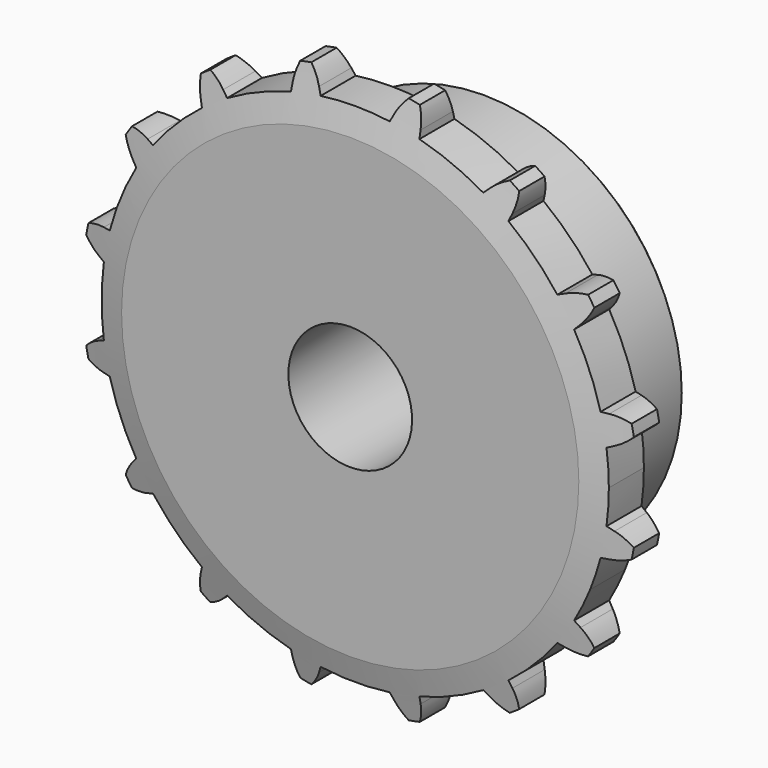
from build123d import *

# Parameters (mm, degrees)
F0_W     = 7.2136
F0_H     = 17.4625
F0_W_2   = 15.0114
F0_H_2   = 10.287
F2_R     = 1.5875
F3_SIZE  = 0.79375
F4_SIZE2 = 6.35
F4_SIZE  = 1.5748
F6_DEPTH = 22.226


with BuildPart() as f1:
    # F0 (on Right) → F1 (revolve)
    with BuildSketch(Plane.YZ):
        with Locations((3.6068, 16.66875)):
            Rectangle(F0_W, F0_H)
        with Locations((14.7193, 16.66875)):
            Rectangle(F0_W_2, F0_H)
        with Locations((3.6068, 30.5435)):
            Rectangle(F0_W, F0_H_2)
    revolve(axis=Axis((0, 27.0035882514, 0), (0, 1, 0)))

    # F2
    f2_edges = [f1.edges().sort_by_distance(p)[0] for p in [
        (0, 7.2136, -25.4),
    ]]
    fillet(f2_edges, radius=F2_R)

    # F3
    f3_edges = [f1.edges().sort_by_distance(p)[0] for p in [
        (0, 22.225, -25.4),
    ]]
    chamfer(f3_edges, length=F3_SIZE)

    # F4
    f4_edges = [f1.edges().sort_by_distance(p)[0] for p in [
        (0, 0, -35.687),
        (0, 7.2136, -35.687),
    ]]
    f4_side = f1.faces().sort_by_distance((0, 3.6068, -35.687))[0]
    chamfer(f4_edges, length=F4_SIZE, length2=F4_SIZE2, reference=f4_side)

    # F5 (on face) → F6 (intersect, through all)
    with BuildSketch(Plane.XZ):
        with BuildLine():
            ThreePointArc((32.2468627383, -4.4327027358), (32.4742021983, -2.2215313627), (32.5501, 0))
            ThreePointArc((32.5501, 0), (32.4742021983, 2.2215313627), (32.2468627383, 4.4327027358))
            ThreePointArc((32.2468627383, 4.4327027358), (31.1168279297, 3.8288728943), (30.0699408338, 3.0902142758))
            ThreePointArc((30.0699408338, 3.0902142758), (28.8110732027, 1.3115991648), (28.6829715368, -0.8636730915))
            ThreePointArc((28.6829715368, -0.8636730915), (29.1868595278, -2.0950482778), (30.0699408338, -3.0902142758))
            ThreePointArc((30.0699408338, -3.0902142758), (31.1168279297, -3.8288728943), (32.2468627383, -4.4327027358))
        make_face()
        with BuildLine():
            ThreePointArc((30.0699408338, 3.0902142758), (31.1168279297, 3.8288728943), (32.2468627383, 4.4327027358))
            ThreePointArc((32.2468627383, 4.4327027358), (31.9246589557, 6.3502094907), (31.4885383693, 8.2450567844))
            ThreePointArc((31.4885383693, 8.2450567844), (30.2134466622, 8.3704772169), (28.963576686, 8.6522824488))
            ThreePointArc((28.963576686, 8.6522824488), (27.7668824019, 9.2337553606), (26.8301237175, 10.1785681061))
            ThreePointArc((26.8301237175, 10.1785681061), (26.1160335714, 12.2372800065), (26.5984290744, 14.3622538898))
            ThreePointArc((26.5984290744, 14.3622538898), (27.2829542197, 15.4453118161), (28.0958945741, 16.4356234471))
            ThreePointArc((28.0958945741, 16.4356234471), (27.0644190274, 18.0838666418), (25.9363694778, 19.6675811508))
            ThreePointArc((25.9363694778, 19.6675811508), (24.710342026, 19.2954980503), (23.4477705432, 19.0775476037))
            ThreePointArc((23.4477705432, 19.0775476037), (22.1196491378, 19.1568034495), (20.892632778, 19.6712145785))
            ThreePointArc((20.892632778, 19.6712145785), (19.4450645713, 21.2999458985), (19.0775476037, 23.4477705432))
            ThreePointArc((19.0775476037, 23.4477705432), (19.2954980503, 24.710342026), (19.6675811508, 25.9363694778))
            ThreePointArc((19.6675811508, 25.9363694778), (18.0838666418, 27.0644190274), (16.4356234471, 28.0958945741))
            ThreePointArc((16.4356234471, 28.0958945741), (15.4453118161, 27.2829542197), (14.3622538898, 26.5984290744))
            ThreePointArc((14.3622538898, 26.5984290744), (13.1048998075, 26.1634018701), (11.7744278902, 26.1690969513))
            ThreePointArc((11.7744278902, 26.1690969513), (9.8137607601, 27.1198881119), (8.6522824488, 28.963576686))
            ThreePointArc((8.6522824488, 28.963576686), (8.3704772169, 30.2134466622), (8.2450567844, 31.4885383693))
            ThreePointArc((8.2450567844, 31.4885383693), (6.3502094907, 31.9246589557), (4.4327027358, 32.2468627383))
            ThreePointArc((4.4327027358, 32.2468627383), (3.8288728943, 31.1168279297), (3.0902142758, 30.0699408338))
            ThreePointArc((3.0902142758, 30.0699408338), (2.0950482778, 29.1868595278), (0.8636730915, 28.6829715368))
            ThreePointArc((0.8636730915, 28.6829715368), (-1.3115991648, 28.8110732027), (-3.0902142758, 30.0699408338))
            ThreePointArc((-3.0902142758, 30.0699408338), (-3.8288728943, 31.1168279297), (-4.4327027358, 32.2468627383))
            ThreePointArc((-4.4327027358, 32.2468627383), (-4.4328730935, 32.2468393203), (-4.433043451, 32.2468159013))
            ThreePointArc((-4.433043451, 32.2468159013), (-6.3503781461, 31.9246254075), (-8.2450567844, 31.4885383693))
            ThreePointArc((-8.2450567844, 31.4885383693), (-8.3704772169, 30.2134466622), (-8.6522824488, 28.963576686))
            ThreePointArc((-8.6522824488, 28.963576686), (-9.2337553606, 27.7668824019), (-10.1785681061, 26.8301237175))
            ThreePointArc((-10.1785681061, 26.8301237175), (-12.2372800065, 26.1160335714), (-14.3622538898, 26.5984290744))
            ThreePointArc((-14.3622538898, 26.5984290744), (-15.4453118161, 27.2829542197), (-16.4356234471, 28.0958945741))
            ThreePointArc((-16.4356234471, 28.0958945741), (-18.0838666418, 27.0644190274), (-19.6675811508, 25.9363694778))
            ThreePointArc((-19.6675811508, 25.9363694778), (-19.2954980503, 24.710342026), (-19.0775476037, 23.4477705432))
            ThreePointArc((-19.0775476037, 23.4477705432), (-19.1568034495, 22.1196491378), (-19.6712145785, 20.892632778))
            ThreePointArc((-19.6712145785, 20.892632778), (-21.2999458985, 19.4450645713), (-23.4477705432, 19.0775476037))
            ThreePointArc((-23.4477705432, 19.0775476037), (-24.710342026, 19.2954980503), (-25.9363694778, 19.6675811508))
            ThreePointArc((-25.9363694778, 19.6675811508), (-27.0644190274, 18.0838666418), (-28.0958945741, 16.4356234471))
            ThreePointArc((-28.0958945741, 16.4356234471), (-27.2829542197, 15.4453118161), (-26.5984290744, 14.3622538898))
            ThreePointArc((-26.5984290744, 14.3622538898), (-26.1634018701, 13.1048998075), (-26.1690969513, 11.7744278902))
            ThreePointArc((-26.1690969513, 11.7744278902), (-27.1198881119, 9.8137607601), (-28.963576686, 8.6522824488))
            ThreePointArc((-28.963576686, 8.6522824488), (-30.2134466622, 8.3704772169), (-31.4885383693, 8.2450567844))
            ThreePointArc((-31.4885383693, 8.2450567844), (-31.9246589557, 6.3502094907), (-32.2468627383, 4.4327027358))
            ThreePointArc((-32.2468627383, 4.4327027358), (-31.1168279297, 3.8288728943), (-30.0699408338, 3.0902142758))
            ThreePointArc((-30.0699408338, 3.0902142758), (-29.1868595278, 2.0950482778), (-28.6829715368, 0.8636730915))
            ThreePointArc((-28.6829715368, 0.8636730915), (-28.8110732027, -1.3115991648), (-30.0699408338, -3.0902142758))
            ThreePointArc((-30.0699408338, -3.0902142758), (-31.1168279297, -3.8288728943), (-32.2468627383, -4.4327027358))
            ThreePointArc((-32.2468627383, -4.4327027358), (-31.9246589557, -6.3502094907), (-31.4885383693, -8.2450567844))
            ThreePointArc((-31.4885383693, -8.2450567844), (-30.2134466622, -8.3704772169), (-28.963576686, -8.6522824488))
            ThreePointArc((-28.963576686, -8.6522824488), (-27.7668824019, -9.2337553606), (-26.8301237175, -10.1785681061))
            ThreePointArc((-26.8301237175, -10.1785681061), (-26.1160335714, -12.2372800065), (-26.5984290744, -14.3622538898))
            ThreePointArc((-26.5984290744, -14.3622538898), (-27.2829542197, -15.4453118161), (-28.0958945741, -16.4356234471))
            ThreePointArc((-28.0958945741, -16.4356234471), (-27.0644190274, -18.0838666418), (-25.9363694778, -19.6675811508))
            ThreePointArc((-25.9363694778, -19.6675811508), (-25.6632094228, -19.5701802439), (-25.3874309068, -19.4804608902))
            ThreePointArc((-25.3874309068, -19.4804608902), (-24.4272506056, -19.2325488644), (-23.4477705432, -19.0775476037))
            ThreePointArc((-23.4477705432, -19.0775476037), (-22.1196491378, -19.1568034495), (-20.892632778, -19.6712145785))
            ThreePointArc((-20.892632778, -19.6712145785), (-19.4450645713, -21.2999458985), (-19.0775476037, -23.4477705432))
            ThreePointArc((-19.0775476037, -23.4477705432), (-19.2954980503, -24.710342026), (-19.6675811508, -25.9363694778))
            ThreePointArc((-19.6675811508, -25.9363694778), (-18.0838666418, -27.0644190274), (-16.4356234471, -28.0958945741))
            ThreePointArc((-16.4356234471, -28.0958945741), (-15.4453118161, -27.2829542197), (-14.3622538898, -26.5984290744))
            ThreePointArc((-14.3622538898, -26.5984290744), (-13.1048998075, -26.1634018701), (-11.7744278902, -26.1690969513))
            ThreePointArc((-11.7744278902, -26.1690969513), (-9.8137607601, -27.1198881119), (-8.6522824488, -28.963576686))
            ThreePointArc((-8.6522824488, -28.963576686), (-8.3704772169, -30.2134466622), (-8.2450567844, -31.4885383693))
            ThreePointArc((-8.2450567844, -31.4885383693), (-6.3502094907, -31.9246589557), (-4.4327027358, -32.2468627383))
            ThreePointArc((-4.4327027358, -32.2468627383), (-3.8288728943, -31.1168279297), (-3.0902142758, -30.0699408338))
            ThreePointArc((-3.0902142758, -30.0699408338), (-2.0950482778, -29.1868595278), (-0.8636730915, -28.6829715368))
            ThreePointArc((-0.8636730915, -28.6829715368), (1.3115991648, -28.8110732027), (3.0902142758, -30.0699408338))
            ThreePointArc((3.0902142758, -30.0699408338), (3.8288728943, -31.1168279297), (4.4327027358, -32.2468627383))
            ThreePointArc((4.4327027358, -32.2468627383), (6.3502094907, -31.9246589557), (8.2450567844, -31.4885383693))
            ThreePointArc((8.2450567844, -31.4885383693), (8.3704772169, -30.2134466622), (8.6522824488, -28.963576686))
            ThreePointArc((8.6522824488, -28.963576686), (9.2337553606, -27.7668824019), (10.1785681061, -26.8301237175))
            ThreePointArc((10.1785681061, -26.8301237175), (12.2372800065, -26.1160335714), (14.3622538898, -26.5984290744))
            ThreePointArc((14.3622538898, -26.5984290744), (15.4453118161, -27.2829542197), (16.4356234471, -28.0958945741))
            ThreePointArc((16.4356234471, -28.0958945741), (18.0838666418, -27.0644190274), (19.6675811508, -25.9363694778))
            ThreePointArc((19.6675811508, -25.9363694778), (19.2954980503, -24.710342026), (19.0775476037, -23.4477705432))
            ThreePointArc((19.0775476037, -23.4477705432), (19.1568034495, -22.1196491378), (19.6712145785, -20.892632778))
            ThreePointArc((19.6712145785, -20.892632778), (21.2999458985, -19.4450645713), (23.4477705432, -19.0775476037))
            ThreePointArc((23.4477705432, -19.0775476037), (24.710342026, -19.2954980503), (25.9363694778, -19.6675811508))
            ThreePointArc((25.9363694778, -19.6675811508), (27.0644190274, -18.0838666418), (28.0958945741, -16.4356234471))
            ThreePointArc((28.0958945741, -16.4356234471), (27.2829542197, -15.4453118161), (26.5984290744, -14.3622538898))
            ThreePointArc((26.5984290744, -14.3622538898), (26.1634018701, -13.1048998075), (26.1690969513, -11.7744278902))
            ThreePointArc((26.1690969513, -11.7744278902), (27.1198881119, -9.8137607601), (28.963576686, -8.6522824488))
            ThreePointArc((28.963576686, -8.6522824488), (30.2134466622, -8.3704772169), (31.4885383693, -8.2450567844))
            ThreePointArc((31.4885383693, -8.2450567844), (31.9246589557, -6.3502094907), (32.2468627383, -4.4327027358))
            ThreePointArc((32.2468627383, -4.4327027358), (31.1168279297, -3.8288728943), (30.0699408338, -3.0902142758))
            ThreePointArc((30.0699408338, -3.0902142758), (29.1868595278, -2.0950482778), (28.6829715368, -0.8636730915))
            ThreePointArc((28.6829715368, -0.8636730915), (28.8110732027, 1.3115991648), (30.0699408338, 3.0902142758))
        make_face()
        with BuildLine():
            ThreePointArc((31.4885383693, 8.2450567844), (31.9246589557, 6.3502094907), (32.2468627383, 4.4327027358))
            ThreePointArc((32.2468627383, 4.4327027358), (32.273488972, 4.4448328852), (32.3001493474, 4.4568878106))
            Line((32.3001493474, 4.4568878106), (33.0982711732, 4.8164154778))
            ThreePointArc((33.0982711732, 4.8164154778), (34.6345413147, 5.7824590494), (35.8491373836, 7.1308367855))
            ThreePointArc((35.8491373836, 7.1308367855), (34.2109951151, 7.9117695854), (32.4219777052, 8.2163723379))
            Line((32.4219777052, 8.2163723379), (31.5470240041, 8.2431045912))
            ThreePointArc((31.5470240041, 8.2431045912), (31.5177798087, 8.2440394061), (31.4885383693, 8.2450567844))
        make_face()
        with BuildLine():
            ThreePointArc((32.3001493474, -4.4568878106), (32.273488972, -4.4448328852), (32.2468627383, -4.4327027358))
            ThreePointArc((32.2468627383, -4.4327027358), (31.9246589557, -6.3502094907), (31.4885383693, -8.2450567844))
            ThreePointArc((31.4885383693, -8.2450567844), (31.5177798087, -8.2440394061), (31.5470240041, -8.2431045912))
            Line((31.5470240041, -8.2431045912), (32.4219777052, -8.2163723379))
            ThreePointArc((32.4219777052, -8.2163723379), (34.2109951151, -7.9117695854), (35.8491373836, -7.1308367855))
            ThreePointArc((35.8491373836, -7.1308367855), (34.6345413147, -5.7824590494), (33.0982711732, -4.8164154778))
            Line((33.0982711732, -4.8164154778), (32.3001493474, -4.4568878106))
        make_face()
        with BuildLine():
            ThreePointArc((28.963576686, 8.6522824488), (30.2134466622, 8.3704772169), (31.4885383693, 8.2450567844))
            ThreePointArc((31.4885383693, 8.2450567844), (30.0723711712, 12.4563839918), (28.0958945741, 16.4356234471))
            ThreePointArc((28.0958945741, 16.4356234471), (27.2829542197, 15.4453118161), (26.5984290744, 14.3622538898))
            ThreePointArc((26.5984290744, 14.3622538898), (26.1160335714, 12.2372800065), (26.8301237175, 10.1785681061))
            ThreePointArc((26.8301237175, 10.1785681061), (27.7668824019, 9.2337553606), (28.963576686, 8.6522824488))
        make_face()
        with BuildLine():
            ThreePointArc((30.1429536917, -12.2845981925), (30.8818664771, -10.2868524291), (31.4885383693, -8.2450567844))
            ThreePointArc((31.4885383693, -8.2450567844), (30.2134466622, -8.3704772169), (28.963576686, -8.6522824488))
            ThreePointArc((28.963576686, -8.6522824488), (27.1198881119, -9.8137607601), (26.1690969513, -11.7744278902))
            ThreePointArc((26.1690969513, -11.7744278902), (26.1634018701, -13.1048998075), (26.5984290744, -14.3622538898))
            ThreePointArc((26.5984290744, -14.3622538898), (27.2829542197, -15.4453118161), (28.0958945741, -16.4356234471))
            ThreePointArc((28.0958945741, -16.4356234471), (29.1932974242, -14.3965410955), (30.1429536917, -12.2845981925))
        make_face()
        with BuildLine():
            ThreePointArc((25.9363694778, 19.6675811508), (27.0644190274, 18.0838666418), (28.0958945741, 16.4356234471))
            ThreePointArc((28.0958945741, 16.4356234471), (28.1158519992, 16.4570196623), (28.135869754, 16.4783594451))
            Line((28.135869754, 16.4783594451), (28.7356528917, 17.115947698))
            ThreePointArc((28.7356528917, 17.115947698), (29.7852925621, 18.596360712), (30.3914311902, 20.3069050971))
            ThreePointArc((30.3914311902, 20.3069050971), (28.5791350327, 20.4015030212), (26.8097320375, 19.9982919468))
            Line((26.8097320375, 19.9982919468), (25.9911502307, 19.688159043))
            ThreePointArc((25.9911502307, 19.688159043), (25.963774379, 19.6778314303), (25.9363694778, 19.6675811508))
        make_face()
        with BuildLine():
            ThreePointArc((23.4477705432, 19.0775476037), (24.710342026, 19.2954980503), (25.9363694778, 19.6675811508))
            ThreePointArc((25.9363694778, 19.6675811508), (23.0163964383, 23.0163964383), (19.6675811508, 25.9363694778))
            ThreePointArc((19.6675811508, 25.9363694778), (19.2954980503, 24.710342026), (19.0775476037, 23.4477705432))
            ThreePointArc((19.0775476037, 23.4477705432), (19.4450645713, 21.2999458985), (20.892632778, 19.6712145785))
            ThreePointArc((20.892632778, 19.6712145785), (22.1196491378, 19.1568034495), (23.4477705432, 19.0775476037))
        make_face()
        with BuildLine():
            ThreePointArc((28.135869754, -16.4783594451), (28.1158519992, -16.4570196623), (28.0958945741, -16.4356234471))
            ThreePointArc((28.0958945741, -16.4356234471), (27.0644190274, -18.0838666418), (25.9363694778, -19.6675811508))
            ThreePointArc((25.9363694778, -19.6675811508), (25.963774379, -19.6778314303), (25.9911502307, -19.688159043))
            Line((25.9911502307, -19.688159043), (26.8097320375, -19.9982919468))
            ThreePointArc((26.8097320375, -19.9982919468), (28.5791350327, -20.4015030212), (30.3914311902, -20.3069050971))
            ThreePointArc((30.3914311902, -20.3069050971), (29.7852925621, -18.596360712), (28.7356528917, -17.115947698))
            Line((28.7356528917, -17.115947698), (28.135869754, -16.4783594451))
        make_face()
        with BuildLine():
            ThreePointArc((16.4356234471, 28.0958945741), (18.0838666418, 27.0644190274), (19.6675811508, 25.9363694778))
            ThreePointArc((19.6675811508, 25.9363694778), (19.6778314303, 25.963774379), (19.688159043, 25.9911502307))
            Line((19.688159043, 25.9911502307), (19.9982919468, 26.8097320375))
            ThreePointArc((19.9982919468, 26.8097320375), (20.4015030212, 28.5791350327), (20.3069050971, 30.3914311902))
            ThreePointArc((20.3069050971, 30.3914311902), (18.596360712, 29.7852925621), (17.115947698, 28.7356528917))
            Line((17.115947698, 28.7356528917), (16.4783594451, 28.135869754))
            ThreePointArc((16.4783594451, 28.135869754), (16.4570196623, 28.1158519992), (16.4356234471, 28.0958945741))
        make_face()
        with BuildLine():
            ThreePointArc((19.6675811508, -25.9363694778), (23.0163964383, -23.0163964383), (25.9363694778, -19.6675811508))
            ThreePointArc((25.9363694778, -19.6675811508), (24.710342026, -19.2954980503), (23.4477705432, -19.0775476037))
            ThreePointArc((23.4477705432, -19.0775476037), (21.2999458985, -19.4450645713), (19.6712145785, -20.892632778))
            ThreePointArc((19.6712145785, -20.892632778), (19.1568034495, -22.1196491378), (19.0775476037, -23.4477705432))
            ThreePointArc((19.0775476037, -23.4477705432), (19.2954980503, -24.710342026), (19.6675811508, -25.9363694778))
        make_face()
        with BuildLine():
            ThreePointArc((14.3622538898, 26.5984290744), (15.4453118161, 27.2829542197), (16.4356234471, 28.0958945741))
            ThreePointArc((16.4356234471, 28.0958945741), (12.4563839918, 30.0723711712), (8.2450567844, 31.4885383693))
            ThreePointArc((8.2450567844, 31.4885383693), (8.3704772169, 30.2134466622), (8.6522824488, 28.963576686))
            ThreePointArc((8.6522824488, 28.963576686), (9.8137607601, 27.1198881119), (11.7744278902, 26.1690969513))
            ThreePointArc((11.7744278902, 26.1690969513), (13.1048998075, 26.1634018701), (14.3622538898, 26.5984290744))
        make_face()
        with BuildLine():
            ThreePointArc((19.688159043, -25.9911502307), (19.6778314303, -25.963774379), (19.6675811508, -25.9363694778))
            ThreePointArc((19.6675811508, -25.9363694778), (18.0838666418, -27.0644190274), (16.4356234471, -28.0958945741))
            ThreePointArc((16.4356234471, -28.0958945741), (16.4570196623, -28.1158519992), (16.4783594451, -28.135869754))
            Line((16.4783594451, -28.135869754), (17.115947698, -28.7356528917))
            ThreePointArc((17.115947698, -28.7356528917), (18.596360712, -29.7852925621), (20.3069050971, -30.3914311902))
            ThreePointArc((20.3069050971, -30.3914311902), (20.4015030212, -28.5791350327), (19.9982919468, -26.8097320375))
            Line((19.9982919468, -26.8097320375), (19.688159043, -25.9911502307))
        make_face()
        with BuildLine():
            ThreePointArc((4.4327027358, 32.2468627383), (6.3502094907, 31.9246589557), (8.2450567844, 31.4885383693))
            ThreePointArc((8.2450567844, 31.4885383693), (8.2440394061, 31.5177798087), (8.2431045912, 31.5470240041))
            Line((8.2431045912, 31.5470240041), (8.2163723379, 32.4219777052))
            ThreePointArc((8.2163723379, 32.4219777052), (7.9117695854, 34.2109951151), (7.1308367855, 35.8491373836))
            ThreePointArc((7.1308367855, 35.8491373836), (5.7824590494, 34.6345413147), (4.8164154778, 33.0982711732))
            Line((4.8164154778, 33.0982711732), (4.4568878106, 32.3001493474))
            ThreePointArc((4.4568878106, 32.3001493474), (4.4448328852, 32.273488972), (4.4327027358, 32.2468627383))
        make_face()
        with BuildLine():
            ThreePointArc((8.2450567844, -31.4885383693), (12.4563839918, -30.0723711712), (16.4356234471, -28.0958945741))
            ThreePointArc((16.4356234471, -28.0958945741), (15.4453118161, -27.2829542197), (14.3622538898, -26.5984290744))
            ThreePointArc((14.3622538898, -26.5984290744), (12.2372800065, -26.1160335714), (10.1785681061, -26.8301237175))
            ThreePointArc((10.1785681061, -26.8301237175), (9.2337553606, -27.7668824019), (8.6522824488, -28.963576686))
            ThreePointArc((8.6522824488, -28.963576686), (8.3704772169, -30.2134466622), (8.2450567844, -31.4885383693))
        make_face()
        with BuildLine():
            ThreePointArc((3.0902142758, 30.0699408338), (3.8288728943, 31.1168279297), (4.4327027358, 32.2468627383))
            ThreePointArc((4.4327027358, 32.2468627383), (0, 32.5501), (-4.4327027358, 32.2468627383))
            ThreePointArc((-4.4327027358, 32.2468627383), (-3.8288728943, 31.1168279297), (-3.0902142758, 30.0699408338))
            ThreePointArc((-3.0902142758, 30.0699408338), (-1.3115991648, 28.8110732027), (0.8636730915, 28.6829715368))
            ThreePointArc((0.8636730915, 28.6829715368), (2.0950482778, 29.1868595278), (3.0902142758, 30.0699408338))
        make_face()
        with BuildLine():
            ThreePointArc((8.2431045912, -31.5470240041), (8.2440394061, -31.5177798087), (8.2450567844, -31.4885383693))
            ThreePointArc((8.2450567844, -31.4885383693), (6.3502094907, -31.9246589557), (4.4327027358, -32.2468627383))
            ThreePointArc((4.4327027358, -32.2468627383), (4.4448328852, -32.273488972), (4.4568878106, -32.3001493474))
            Line((4.4568878106, -32.3001493474), (4.8164154778, -33.0982711732))
            ThreePointArc((4.8164154778, -33.0982711732), (5.7824590494, -34.6345413147), (7.1308367855, -35.8491373836))
            ThreePointArc((7.1308367855, -35.8491373836), (7.9117695854, -34.2109951151), (8.2163723379, -32.4219777052))
            Line((8.2163723379, -32.4219777052), (8.2431045912, -31.5470240041))
        make_face()
        with BuildLine():
            ThreePointArc((-4.433043451, 32.2468159013), (-4.4328730935, 32.2468393203), (-4.4327027358, 32.2468627383))
            ThreePointArc((-4.4327027358, 32.2468627383), (-4.4448328852, 32.273488972), (-4.4568878106, 32.3001493474))
            ThreePointArc((-4.4568878106, 32.3001493474), (-4.4449280483, 32.2734994267), (-4.433043451, 32.2468159013))
        make_face()
        with BuildLine():
            ThreePointArc((-4.4327027358, -32.2468627383), (0, -32.5501), (4.4327027358, -32.2468627383))
            ThreePointArc((4.4327027358, -32.2468627383), (3.8288728943, -31.1168279297), (3.0902142758, -30.0699408338))
            ThreePointArc((3.0902142758, -30.0699408338), (1.3115991648, -28.8110732027), (-0.8636730915, -28.6829715368))
            ThreePointArc((-0.8636730915, -28.6829715368), (-2.0950482778, -29.1868595278), (-3.0902142758, -30.0699408338))
            ThreePointArc((-3.0902142758, -30.0699408338), (-3.8288728943, -31.1168279297), (-4.4327027358, -32.2468627383))
        make_face()
        with BuildLine():
            ThreePointArc((-8.2450567844, 31.4885383693), (-6.3503781461, 31.9246254075), (-4.433043451, 32.2468159013))
            ThreePointArc((-4.433043451, 32.2468159013), (-4.4449280483, 32.2734994267), (-4.4568878106, 32.3001493474))
            Line((-4.4568878106, 32.3001493474), (-4.8164154778, 33.0982711732))
            ThreePointArc((-4.8164154778, 33.0982711732), (-5.7824590494, 34.6345413147), (-7.1308367855, 35.8491373836))
            ThreePointArc((-7.1308367855, 35.8491373836), (-7.9117695854, 34.2109951151), (-8.2163723379, 32.4219777052))
            Line((-8.2163723379, 32.4219777052), (-8.2431045912, 31.5470240041))
            ThreePointArc((-8.2431045912, 31.5470240041), (-8.2440394061, 31.5177798087), (-8.2450567844, 31.4885383693))
        make_face()
        with BuildLine():
            ThreePointArc((-4.4568878106, -32.3001493474), (-4.4448328852, -32.273488972), (-4.4327027358, -32.2468627383))
            ThreePointArc((-4.4327027358, -32.2468627383), (-6.3502094907, -31.9246589557), (-8.2450567844, -31.4885383693))
            ThreePointArc((-8.2450567844, -31.4885383693), (-8.2440394061, -31.5177798087), (-8.2431045912, -31.5470240041))
            Line((-8.2431045912, -31.5470240041), (-8.2163723379, -32.4219777052))
            ThreePointArc((-8.2163723379, -32.4219777052), (-7.9117695854, -34.2109951151), (-7.1308367855, -35.8491373836))
            ThreePointArc((-7.1308367855, -35.8491373836), (-5.7824590494, -34.6345413147), (-4.8164154778, -33.0982711732))
            Line((-4.8164154778, -33.0982711732), (-4.4568878106, -32.3001493474))
        make_face()
        with BuildLine():
            ThreePointArc((-8.6522824488, 28.963576686), (-8.3704772169, 30.2134466622), (-8.2450567844, 31.4885383693))
            ThreePointArc((-8.2450567844, 31.4885383693), (-12.4563839918, 30.0723711712), (-16.4356234471, 28.0958945741))
            ThreePointArc((-16.4356234471, 28.0958945741), (-15.4453118161, 27.2829542197), (-14.3622538898, 26.5984290744))
            ThreePointArc((-14.3622538898, 26.5984290744), (-12.2372800065, 26.1160335714), (-10.1785681061, 26.8301237175))
            ThreePointArc((-10.1785681061, 26.8301237175), (-9.2337553606, 27.7668824019), (-8.6522824488, 28.963576686))
        make_face()
        with BuildLine():
            ThreePointArc((-16.4356234471, -28.0958945741), (-12.4563839918, -30.0723711712), (-8.2450567844, -31.4885383693))
            ThreePointArc((-8.2450567844, -31.4885383693), (-8.3704772169, -30.2134466622), (-8.6522824488, -28.963576686))
            ThreePointArc((-8.6522824488, -28.963576686), (-9.8137607601, -27.1198881119), (-11.7744278902, -26.1690969513))
            ThreePointArc((-11.7744278902, -26.1690969513), (-13.1048998075, -26.1634018701), (-14.3622538898, -26.5984290744))
            ThreePointArc((-14.3622538898, -26.5984290744), (-15.4453118161, -27.2829542197), (-16.4356234471, -28.0958945741))
        make_face()
        with BuildLine():
            ThreePointArc((-19.6675811508, 25.9363694778), (-18.0838666418, 27.0644190274), (-16.4356234471, 28.0958945741))
            ThreePointArc((-16.4356234471, 28.0958945741), (-16.4570196623, 28.1158519992), (-16.4783594451, 28.135869754))
            Line((-16.4783594451, 28.135869754), (-17.115947698, 28.7356528917))
            ThreePointArc((-17.115947698, 28.7356528917), (-18.596360712, 29.7852925621), (-20.3069050971, 30.3914311902))
            ThreePointArc((-20.3069050971, 30.3914311902), (-20.4015030212, 28.5791350327), (-19.9982919468, 26.8097320375))
            Line((-19.9982919468, 26.8097320375), (-19.688159043, 25.9911502307))
            ThreePointArc((-19.688159043, 25.9911502307), (-19.6778314303, 25.963774379), (-19.6675811508, 25.9363694778))
        make_face()
        with BuildLine():
            ThreePointArc((-16.4783594451, -28.135869754), (-16.4570196623, -28.1158519992), (-16.4356234471, -28.0958945741))
            ThreePointArc((-16.4356234471, -28.0958945741), (-18.0838666418, -27.0644190274), (-19.6675811508, -25.9363694778))
            ThreePointArc((-19.6675811508, -25.9363694778), (-19.6778314303, -25.963774379), (-19.688159043, -25.9911502307))
            Line((-19.688159043, -25.9911502307), (-19.9982919468, -26.8097320375))
            ThreePointArc((-19.9982919468, -26.8097320375), (-20.4015030212, -28.5791350327), (-20.3069050971, -30.3914311902))
            ThreePointArc((-20.3069050971, -30.3914311902), (-18.596360712, -29.7852925621), (-17.115947698, -28.7356528917))
            Line((-17.115947698, -28.7356528917), (-16.4783594451, -28.135869754))
        make_face()
        with BuildLine():
            ThreePointArc((-19.0775476037, 23.4477705432), (-19.2954980503, 24.710342026), (-19.6675811508, 25.9363694778))
            ThreePointArc((-19.6675811508, 25.9363694778), (-23.0163964383, 23.0163964383), (-25.9363694778, 19.6675811508))
            ThreePointArc((-25.9363694778, 19.6675811508), (-24.710342026, 19.2954980503), (-23.4477705432, 19.0775476037))
            ThreePointArc((-23.4477705432, 19.0775476037), (-21.2999458985, 19.4450645713), (-19.6712145785, 20.892632778))
            ThreePointArc((-19.6712145785, 20.892632778), (-19.1568034495, 22.1196491378), (-19.0775476037, 23.4477705432))
        make_face()
        with BuildLine():
            ThreePointArc((-25.7102509558, -19.9622645458), (-22.8846978155, -23.1473457636), (-19.6675811508, -25.9363694778))
            ThreePointArc((-19.6675811508, -25.9363694778), (-19.2954980503, -24.710342026), (-19.0775476037, -23.4477705432))
            ThreePointArc((-19.0775476037, -23.4477705432), (-19.4450645713, -21.2999458985), (-20.892632778, -19.6712145785))
            ThreePointArc((-20.892632778, -19.6712145785), (-22.1196491378, -19.1568034495), (-23.4477705432, -19.0775476037))
            ThreePointArc((-23.4477705432, -19.0775476037), (-24.4272506056, -19.2325488644), (-25.3874309068, -19.4804608902))
            ThreePointArc((-25.3874309068, -19.4804608902), (-25.5454698798, -19.7236214037), (-25.7102509558, -19.9622645458))
        make_face()
        with BuildLine():
            ThreePointArc((-28.0958945741, 16.4356234471), (-27.0644190274, 18.0838666418), (-25.9363694778, 19.6675811508))
            ThreePointArc((-25.9363694778, 19.6675811508), (-25.963774379, 19.6778314303), (-25.9911502307, 19.688159043))
            Line((-25.9911502307, 19.688159043), (-26.8097320375, 19.9982919468))
            ThreePointArc((-26.8097320375, 19.9982919468), (-28.5791350327, 20.4015030212), (-30.3914311902, 20.3069050971))
            ThreePointArc((-30.3914311902, 20.3069050971), (-29.7852925621, 18.596360712), (-28.7356528917, 17.115947698))
            Line((-28.7356528917, 17.115947698), (-28.135869754, 16.4783594451))
            ThreePointArc((-28.135869754, 16.4783594451), (-28.1158519992, 16.4570196623), (-28.0958945741, 16.4356234471))
        make_face()
        with BuildLine():
            ThreePointArc((-25.9363694778, -19.6675811508), (-25.8237305618, -19.8152453904), (-25.7102509558, -19.9622645458))
            ThreePointArc((-25.7102509558, -19.9622645458), (-25.5454698798, -19.7236214037), (-25.3874309068, -19.4804608902))
            ThreePointArc((-25.3874309068, -19.4804608902), (-25.6632094228, -19.5701802439), (-25.9363694778, -19.6675811508))
        make_face()
        with BuildLine():
            ThreePointArc((-26.5984290744, 14.3622538898), (-27.2829542197, 15.4453118161), (-28.0958945741, 16.4356234471))
            ThreePointArc((-28.0958945741, 16.4356234471), (-30.0723711712, 12.4563839918), (-31.4885383693, 8.2450567844))
            ThreePointArc((-31.4885383693, 8.2450567844), (-30.2134466622, 8.3704772169), (-28.963576686, 8.6522824488))
            ThreePointArc((-28.963576686, 8.6522824488), (-27.1198881119, 9.8137607601), (-26.1690969513, 11.7744278902))
            ThreePointArc((-26.1690969513, 11.7744278902), (-26.1634018701, 13.1048998075), (-26.5984290744, 14.3622538898))
        make_face()
        with BuildLine():
            ThreePointArc((-25.9911502307, -19.688159043), (-25.963774379, -19.6778314303), (-25.9363694778, -19.6675811508))
            ThreePointArc((-25.9363694778, -19.6675811508), (-27.0644190274, -18.0838666418), (-28.0958945741, -16.4356234471))
            ThreePointArc((-28.0958945741, -16.4356234471), (-28.1158519992, -16.4570196623), (-28.135869754, -16.4783594451))
            Line((-28.135869754, -16.4783594451), (-28.7356528917, -17.115947698))
            ThreePointArc((-28.7356528917, -17.115947698), (-29.7852925621, -18.596360712), (-30.3914311902, -20.3069050971))
            ThreePointArc((-30.3914311902, -20.3069050971), (-28.5791350327, -20.4015030212), (-26.8097320375, -19.9982919468))
            Line((-26.8097320375, -19.9982919468), (-25.9911502307, -19.688159043))
        make_face()
        with BuildLine():
            ThreePointArc((-32.2468627383, 4.4327027358), (-31.9246589557, 6.3502094907), (-31.4885383693, 8.2450567844))
            ThreePointArc((-31.4885383693, 8.2450567844), (-31.5177798087, 8.2440394061), (-31.5470240041, 8.2431045912))
            Line((-31.5470240041, 8.2431045912), (-32.4219777052, 8.2163723379))
            ThreePointArc((-32.4219777052, 8.2163723379), (-34.2109951151, 7.9117695854), (-35.8491373836, 7.1308367855))
            ThreePointArc((-35.8491373836, 7.1308367855), (-34.6345413147, 5.7824590494), (-33.0982711732, 4.8164154778))
            Line((-33.0982711732, 4.8164154778), (-32.3001493474, 4.4568878106))
            ThreePointArc((-32.3001493474, 4.4568878106), (-32.273488972, 4.4448328852), (-32.2468627383, 4.4327027358))
        make_face()
        with BuildLine():
            ThreePointArc((-31.4885383693, -8.2450567844), (-30.0723711712, -12.4563839918), (-28.0958945741, -16.4356234471))
            ThreePointArc((-28.0958945741, -16.4356234471), (-27.2829542197, -15.4453118161), (-26.5984290744, -14.3622538898))
            ThreePointArc((-26.5984290744, -14.3622538898), (-26.1160335714, -12.2372800065), (-26.8301237175, -10.1785681061))
            ThreePointArc((-26.8301237175, -10.1785681061), (-27.7668824019, -9.2337553606), (-28.963576686, -8.6522824488))
            ThreePointArc((-28.963576686, -8.6522824488), (-30.2134466622, -8.3704772169), (-31.4885383693, -8.2450567844))
        make_face()
        with BuildLine():
            ThreePointArc((-30.0699408338, 3.0902142758), (-31.1168279297, 3.8288728943), (-32.2468627383, 4.4327027358))
            ThreePointArc((-32.2468627383, 4.4327027358), (-32.5501, 0), (-32.2468627383, -4.4327027358))
            ThreePointArc((-32.2468627383, -4.4327027358), (-31.1168279297, -3.8288728943), (-30.0699408338, -3.0902142758))
            ThreePointArc((-30.0699408338, -3.0902142758), (-28.8110732027, -1.3115991648), (-28.6829715368, 0.8636730915))
            ThreePointArc((-28.6829715368, 0.8636730915), (-29.1868595278, 2.0950482778), (-30.0699408338, 3.0902142758))
        make_face()
        with BuildLine():
            ThreePointArc((-31.5470240041, -8.2431045912), (-31.5177798087, -8.2440394061), (-31.4885383693, -8.2450567844))
            ThreePointArc((-31.4885383693, -8.2450567844), (-31.9246589557, -6.3502094907), (-32.2468627383, -4.4327027358))
            ThreePointArc((-32.2468627383, -4.4327027358), (-32.273488972, -4.4448328852), (-32.3001493474, -4.4568878106))
            Line((-32.3001493474, -4.4568878106), (-33.0982711732, -4.8164154778))
            ThreePointArc((-33.0982711732, -4.8164154778), (-34.6345413147, -5.7824590494), (-35.8491373836, -7.1308367855))
            ThreePointArc((-35.8491373836, -7.1308367855), (-34.2109951151, -7.9117695854), (-32.4219777052, -8.2163723379))
            Line((-32.4219777052, -8.2163723379), (-31.5470240041, -8.2431045912))
        make_face()
    extrude(amount=-F6_DEPTH, mode=Mode.INTERSECT)


solid = f1.part
